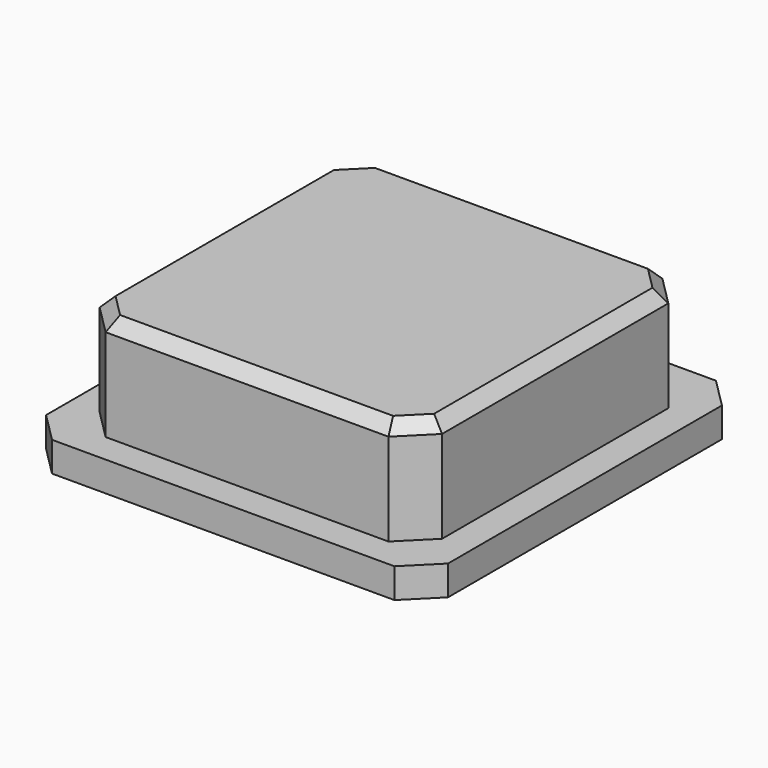
from build123d import *

# Parameters (mm, degrees)
BOX025_W           = 4.2
BOX025_H           = 4.2
BOX025_DEPTH       = 2
BOX024_W           = 13.5
BOX024_H           = 13.5
BOX024_DEPTH       = 1
CHAMFER011008_SIZE = 1
CHAMFER011009_SIZE = 2
BOX023_W           = 11.5
BOX023_H           = 11.5
BOX023_DEPTH       = 4.5
CHAMFER011010_SIZE = 1
CHAMFER011011_SIZE = 0.4


with BuildPart() as cube024:
    # Box025 → Box025 (new body)
    with BuildSketch(Plane(origin=(-2.1, -2.1, 0), x_dir=(1, 0, 0), z_dir=(0, 0, 1))):
        with Locations((2.1, 2.1)):
            Rectangle(BOX025_W, BOX025_H)
    extrude(amount=BOX025_DEPTH)


with BuildPart() as chamfer011009:
    # Box024 → Box024 (new body)
    with BuildSketch(Plane(origin=(-6.75, -6.75, 0), x_dir=(1, 0, 0), z_dir=(0, 0, 1))):
        with Locations((6.75, 6.75)):
            Rectangle(BOX024_W, BOX024_H)
    extrude(amount=BOX024_DEPTH)

    # Chamfer011008
    chamfer011008_edges = [chamfer011009.edges().sort_by_distance(p)[0] for p in [
        (-6.75, -6.75, 0.5),
        (6.75, -6.75, 0.5),
        (6.75, 6.75, 0.5),
    ]]
    chamfer(chamfer011008_edges, length=CHAMFER011008_SIZE)

    # Chamfer011009
    chamfer011009_edges = [chamfer011009.edges().sort_by_distance(p)[0] for p in [
        (-6.75, 6.75, 0.5),
    ]]
    chamfer(chamfer011009_edges, length=CHAMFER011009_SIZE)


with BuildPart() as button001:
    # Box023 → Box023 (new body)
    with BuildSketch(Plane(origin=(-5.75, -5.75, 0), x_dir=(1, 0, 0), z_dir=(0, 0, 1))):
        with Locations((5.75, 5.75)):
            Rectangle(BOX023_W, BOX023_H)
    extrude(amount=BOX023_DEPTH)

    # Chamfer011010
    chamfer011010_edges = [button001.edges().sort_by_distance(p)[0] for p in [
        (-5.75, -5.75, 2.25),
        (-5.75, 5.75, 2.25),
        (5.75, -5.75, 2.25),
        (5.75, 5.75, 2.25),
    ]]
    chamfer(chamfer011010_edges, length=CHAMFER011010_SIZE)

    # Chamfer011011
    chamfer011011_edges = [button001.edges().sort_by_distance(p)[0] for p in [
        (-5.75, 0, 4.5),
        (-5.25, -5.25, 4.5),
        (-5.25, 5.25, 4.5),
        (0, -5.75, 4.5),
        (0, 5.75, 4.5),
        (5.25, -5.25, 4.5),
        (5.25, 5.25, 4.5),
        (5.75, 0, 4.5),
    ]]
    chamfer(chamfer011011_edges, length=CHAMFER011011_SIZE)

    # Fusion011005: union Chamfer011009
    add(chamfer011009.part)

    # Cut025002002: cut Cube024
    add(cube024.part, mode=Mode.SUBTRACT)


with BuildPart() as button001_1:
    # Cut025002002 placement: moved
    add(button001.part.moved(Location((10, 4, 25.5))))


solid = button001_1.part
